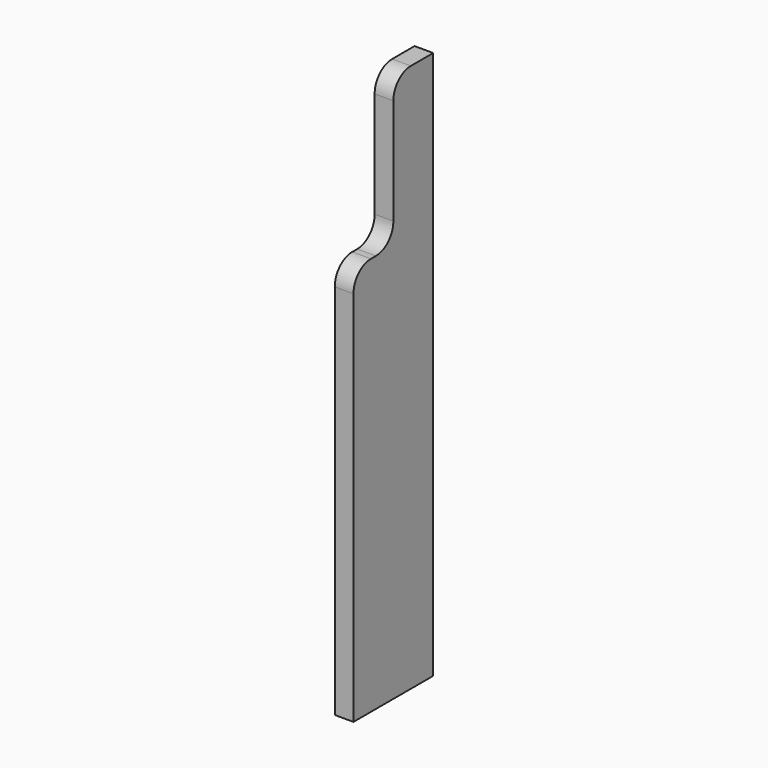
from build123d import *

# Parameters (mm, degrees)
F1_DEPTH = 9.525
F2_R     = 22.225


with BuildPart() as f1:
    # F0 (on Right) → F1 (new body, symmetric)
    with BuildSketch(Plane.YZ):
        Polygon((101.6, -203.2), (101.6, 355.6), (50.8, 355.6), (50.8, 203.2), (0, 203.2), (0, -203.2), align=None)
    extrude(amount=F1_DEPTH, both=True)

    # F2
    f2_edges = [f1.edges().sort_by_distance(p)[0] for p in [
        (0, 50.8, 355.6),
        (0, 50.8, 203.2),
        (0, 0, 203.2),
    ]]
    fillet(f2_edges, radius=F2_R)


solid = f1.part
